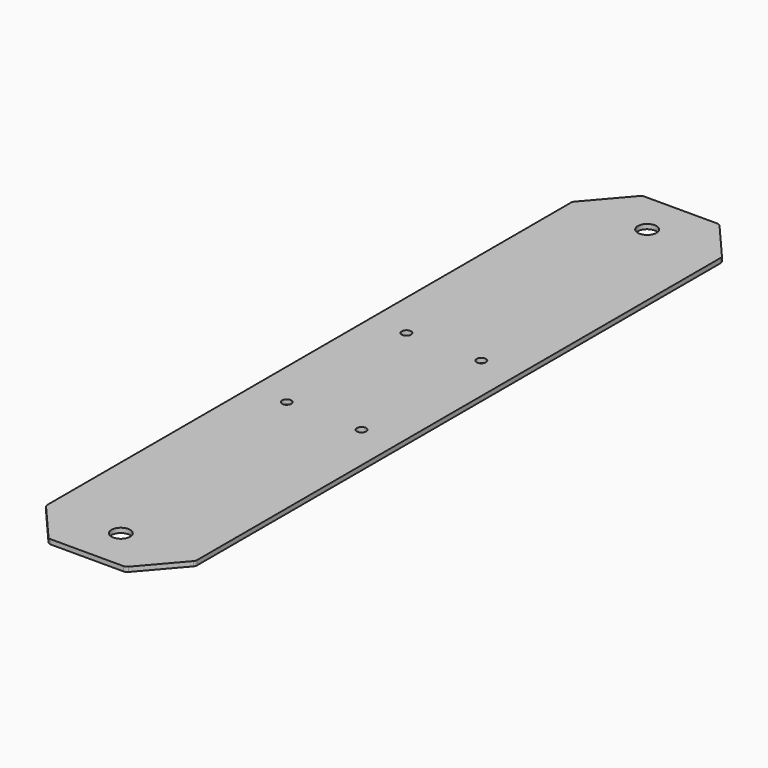
from build123d import *

# Parameters (mm, degrees)
F0_R     = 6.35
F0_R_2   = 3.175
F1_DEPTH = 3.175


with BuildPart() as f1:
    # F0 (on Top) → F1 (new body)
    with BuildSketch(Plane.XY):
        with BuildLine():
            Line((-50.8, 222.153178), (-50.8, 0))
            Line((-50.8, 0), (-50.8, -222.153178))
            ThreePointArc((-50.8, -222.153178), (-50.601455, -223.258321), (-50.030652, -224.225246))
            Line((-50.030652, -224.225246), (-27.137392, -250.804108))
            ThreePointArc((-27.137392, -250.804108), (-26.054958, -251.618165), (-24.731741, -251.90704))
            Line((-24.731741, -251.90704), (24.731741, -251.90704))
            ThreePointArc((24.731741, -251.90704), (26.054958, -251.618165), (27.137392, -250.804108))
            Line((27.137392, -250.804108), (50.030652, -224.225246))
            ThreePointArc((50.030652, -224.225246), (50.601455, -223.258321), (50.8, -222.153178))
            Line((50.8, -222.153178), (50.8, 0))
            Line((50.8, 0), (50.8, 222.153178))
            ThreePointArc((50.8, 222.153178), (50.601455, 223.258321), (50.030652, 224.225246))
            Line((50.030652, 224.225246), (27.137392, 250.804108))
            ThreePointArc((27.137392, 250.804108), (26.054958, 251.618165), (24.731741, 251.90704))
            Line((24.731741, 251.90704), (-24.731741, 251.90704))
            ThreePointArc((-24.731741, 251.90704), (-26.054958, 251.618165), (-27.137392, 250.804108))
            Line((-27.137392, 250.804108), (-50.030652, 224.225246))
            ThreePointArc((-50.030652, 224.225246), (-50.601455, 223.258321), (-50.8, 222.153178))
        make_face()
        with Locations((0, -223.33204)):
            Circle(F0_R, mode=Mode.SUBTRACT)
        with Locations((-25.4, -50.8)):
            Circle(F0_R_2, mode=Mode.SUBTRACT)
        with Locations((25.4, -50.8)):
            Circle(F0_R_2, mode=Mode.SUBTRACT)
        with Locations((-25.4, 50.8)):
            Circle(F0_R_2, mode=Mode.SUBTRACT)
        with Locations((0, 223.33204)):
            Circle(F0_R, mode=Mode.SUBTRACT)
        with Locations((25.4, 50.8)):
            Circle(F0_R_2, mode=Mode.SUBTRACT)
    extrude(amount=F1_DEPTH)


solid = f1.part
